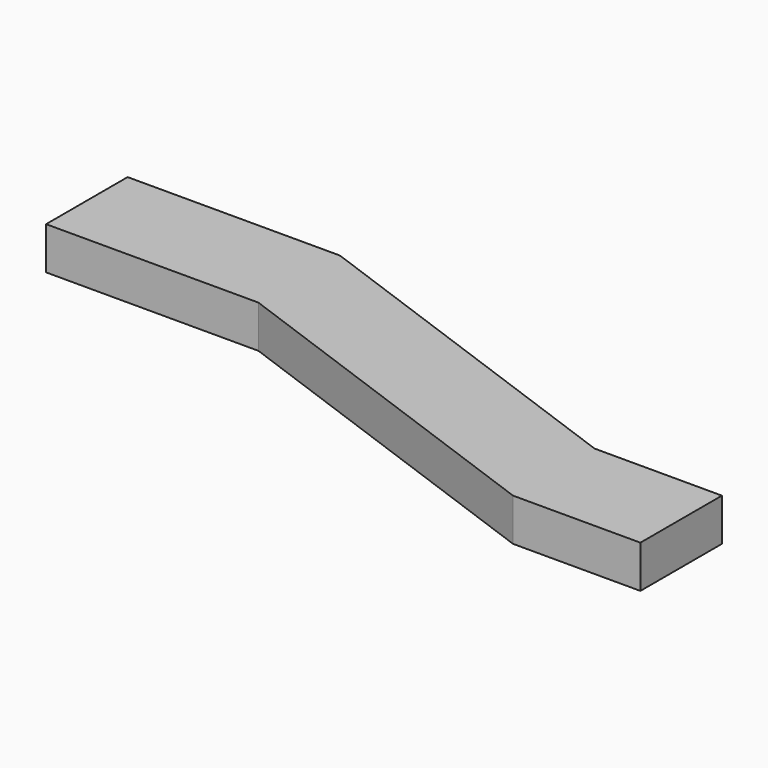
from build123d import *

# Parameters (mm, degrees)
F0_W     = 15
F0_H     = 12
F0_W_2   = 25
F1_DEPTH = 5


with BuildPart() as f1:
    # F0 (on Top) → F1 (new body)
    with BuildSketch(Plane.XY):
        with Locations((74.786168, -21.390906)):
            Rectangle(F0_W, F0_H)
        Polygon((67.286168, -15.390906), (25, 0), (25, -12), (67.286168, -27.390906), align=None)
        with Locations((12.5, -6)):
            Rectangle(F0_W_2, F0_H)
    extrude(amount=F1_DEPTH)


solid = f1.part
